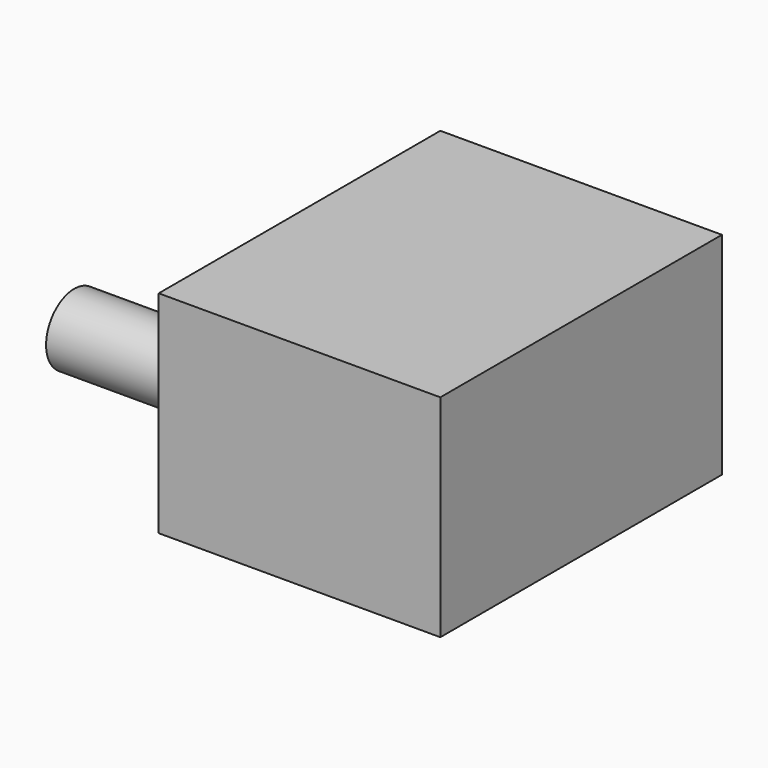
from build123d import *

# Parameters (mm, degrees)
F0_W     = 25
F0_H     = 15
F1_DEPTH = 20
F2_R     = 2.5
F3_DEPTH = 10


with BuildPart() as f1:
    # F0 (on Right) → F1 (new body)
    with BuildSketch(Plane.YZ):
        Rectangle(F0_W, F0_H)
    extrude(amount=F1_DEPTH)

    # F2 (on face) → F3 (join)
    with BuildSketch(Plane(origin=(0, 0, 0), x_dir=(0, -1, 0), z_dir=(-1, 0, 0))):
        with Locations((7.5, 0)):
            Circle(F2_R)
    extrude(amount=F3_DEPTH)


solid = f1.part
